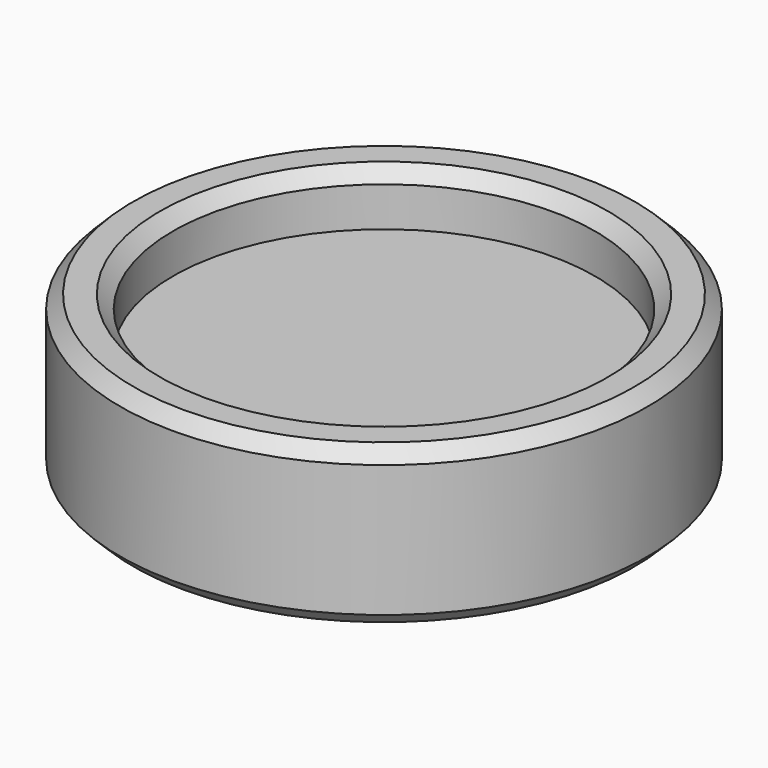
from build123d import *

# Parameters (mm, degrees)
F2_SIZE = 1


with BuildPart() as f1:
    # F0 (on Right) → F1 (revolve)
    with BuildSketch(Plane.YZ):
        Polygon((-16, 4.175502), (-20, 4.175502), (-20, -7.824498), (-16, -7.824498), (-16, -1.824498), (0, -1.824498), (0, 0.175502), (-16, 0.175502), align=None)
    revolve(axis=Axis((0, 0, -1.638931), (0, 0, -1)))

    # F2
    f2_edges = [f1.edges().sort_by_distance(p)[0] for p in [
        (0, 16, 4.175502),
        (0, 20, 4.175502),
        (0, 20, -7.824498),
        (0, 16, -7.824498),
    ]]
    chamfer(f2_edges, length=F2_SIZE)


solid = f1.part
